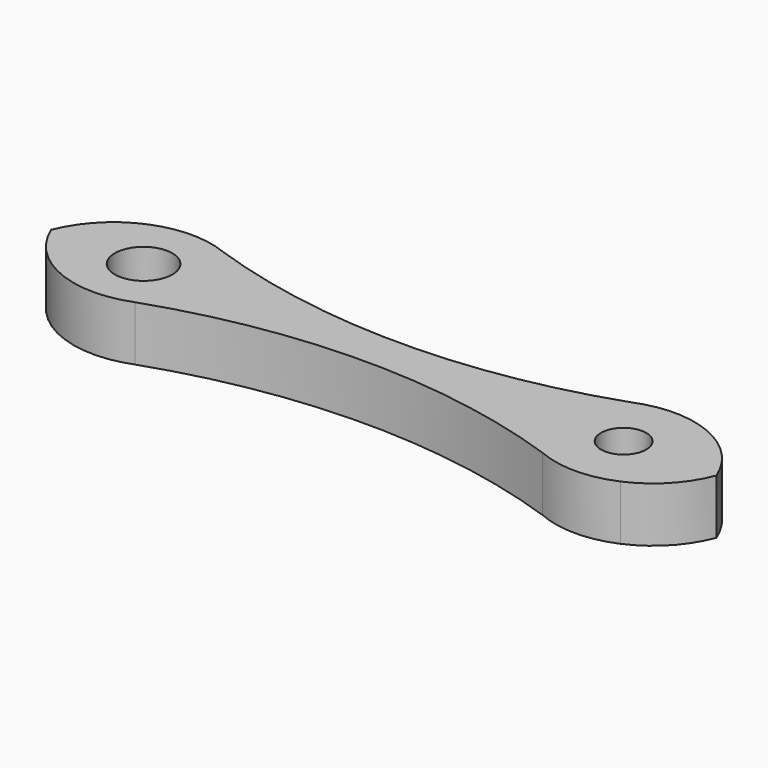
from build123d import *

# Parameters (mm, degrees)
F0_R     = 2.1
F0_R_2   = 1.65
F1_DEPTH = 4


with BuildPart() as f1:
    # F0 (on Top) → F1 (new body)
    with BuildSketch(Plane.XY):
        with BuildLine():
            ThreePointArc((-14.95, -4), (-0.083435, -1.499923), (14.783129, -4))
            ThreePointArc((14.783129, -4), (17.612798, -4.585324), (20.441514, -3.995413))
            ThreePointArc((20.441514, -3.995413), (22.749633, -2.382687), (24.25, 0))
            ThreePointArc((24.25, 0), (22.695398, 2.39643), (20.3309, 3.999182))
            ThreePointArc((20.3309, 3.999182), (17.557097, 4.555734), (14.783129, 4))
            ThreePointArc((14.783129, 4), (-0.083435, 1.499923), (-14.95, 4))
            ThreePointArc((-14.95, 4), (-17.606941, 4.512271), (-20.263877, 3.999976))
            ThreePointArc((-20.263877, 3.999976), (-22.668799, 2.410422), (-24.25, 0))
            ThreePointArc((-24.25, 0), (-20.422404, -3.91209), (-14.95, -4))
        make_face()
        with Locations((-17.516871, 0)):
            Circle(F0_R, mode=Mode.SUBTRACT)
        with Locations((17.483129, 0)):
            Circle(F0_R_2, mode=Mode.SUBTRACT)
    extrude(amount=F1_DEPTH)


solid = f1.part
